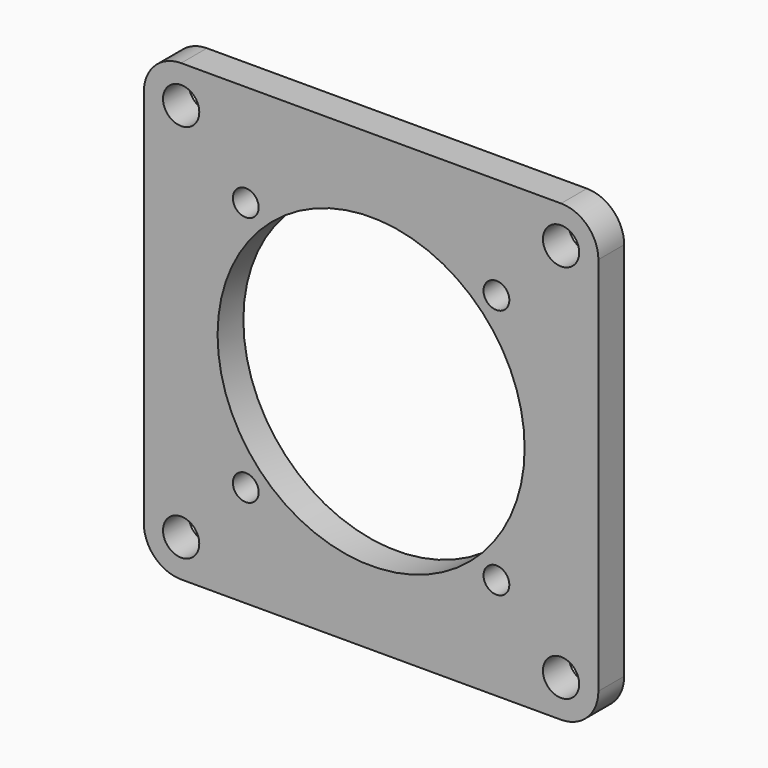
from build123d import *

# Parameters (mm, degrees)
F0_R     = 2.25
F0_R_2   = 1.6
F0_R_3   = 19.05
F1_DEPTH = 4


with BuildPart() as f1:
    # F0 (on Front) → F1 (new body)
    with BuildSketch(Plane.XZ):
        with BuildLine():
            Line((-23.57, -28.2), (23.57, -28.2))
            ThreePointArc((23.57, -28.2), (26.843904, -26.843904), (28.2, -23.57))
            Line((28.2, -23.57), (28.2, 23.57))
            ThreePointArc((28.2, 23.57), (26.843904, 26.843904), (23.57, 28.2))
            Line((23.57, 28.2), (-23.57, 28.2))
            ThreePointArc((-23.57, 28.2), (-26.843904, 26.843904), (-28.2, 23.57))
            Line((-28.2, 23.57), (-28.2, -23.57))
            ThreePointArc((-28.2, -23.57), (-26.843904, -26.843904), (-23.57, -28.2))
        make_face()
        with Locations((-23.57, -23.57)):
            Circle(F0_R, mode=Mode.SUBTRACT)
        with Locations((-15.55, -15.55)):
            Circle(F0_R_2, mode=Mode.SUBTRACT)
        with Locations((23.57, -23.57)):
            Circle(F0_R, mode=Mode.SUBTRACT)
        with Locations((15.55, -15.55)):
            Circle(F0_R_2, mode=Mode.SUBTRACT)
        with Locations((-15.55, 15.55)):
            Circle(F0_R_2, mode=Mode.SUBTRACT)
        with Locations((-23.57, 23.57)):
            Circle(F0_R, mode=Mode.SUBTRACT)
        Circle(F0_R_3, mode=Mode.SUBTRACT)
        with Locations((15.55, 15.55)):
            Circle(F0_R_2, mode=Mode.SUBTRACT)
        with Locations((23.57, 23.57)):
            Circle(F0_R, mode=Mode.SUBTRACT)
    extrude(amount=F1_DEPTH)


solid = f1.part
